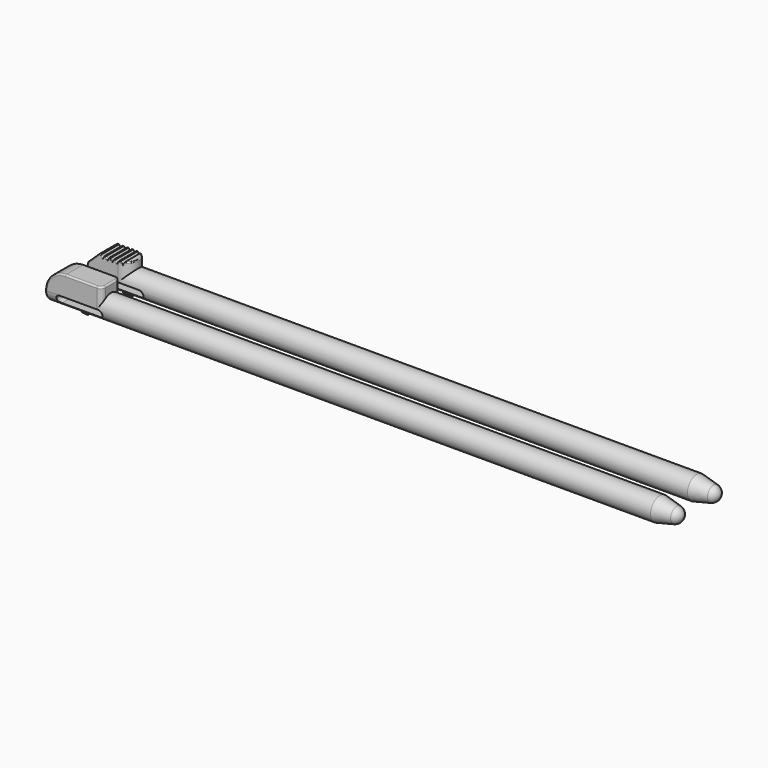
from build123d import *

# Parameters (mm, degrees)
SKETCH_R          = 3.75
PAD_DEPTH         = 205
SKETCH002_W       = 18.75
SKETCH002_H       = 7.8125
PAD001_DEPTH      = 7.5
POCKET_DEPTH      = 7.501
POCKET001_DEPTH   = 9
SKETCH005_R       = 3.75
PAD002_DEPTH      = 10
PAD003_DEPTH      = 1.171875
PAD003_DEPTH_BACK = 1.171875
POCKET002_DEPTH   = 7.501
POCKET003_DEPTH   = 7.501
POCKET004_DEPTH   = 7.501
FILLET_R          = 0.5
POCKET005_DEPTH   = 205.001
PAD004_DEPTH      = 6.171875
POCKET006_DEPTH   = 7.501
POCKET007_DEPTH   = 7.501
PAD005_DEPTH      = 1.530612
PAD005_DEPTH_BACK = 1.530612
POCKET008_DEPTH   = 7.501
FILLET001_R       = 0.3
POCKET009_DEPTH   = 205.001


with BuildPart() as base:
    # Sketch → Pad (new body)
    with BuildSketch(Plane.YZ):
        Circle(SKETCH_R)
    extrude(amount=PAD_DEPTH)

    # Sketch001 → Groove (revolve, cut)
    with BuildSketch(Plane.XZ):
        with BuildLine():
            Line((205, 3.75), (197.5, 3.75))
            Line((197.5, 3.75), (203.0041, 2.5))
            ThreePointArc((205, 0), (204.439824, 1.599501), (203.0041, 2.5))
            Line((206, 0), (205, 0))
            Line((206, 3.75), (206, 0))
            Line((205, 3.75), (206, 3.75))
        make_face()
    revolve(axis=Axis((0, 0, 0), (1, 0, 0)), mode=Mode.SUBTRACT)


with BuildPart() as obj1:
    # Body001 base: copy of Base
    add(base.part)

    # Sketch002 (on DatumPlane) → Pad001 (new body)
    with BuildSketch(Plane(origin=(98.75, 3.75, 0), x_dir=(-1, 0, 0), z_dir=(0, 1, 0))):
        with Locations((89.375, 3.90625)):
            Rectangle(SKETCH002_W, SKETCH002_H)
    extrude(amount=-PAD001_DEPTH)

    # Sketch003 (on DatumPlane) → Pocket (cut, through all)
    with BuildSketch(Plane(origin=(98.75, 3.75, 0), x_dir=(-1, 0, 0), z_dir=(0, 1, 0))):
        with BuildLine():
            Line((98.75, 7.8125), (94.0625, 7.8125))
            ThreePointArc((98.25, 3.125), (96.997388, 6.220166), (94.0625, 7.8125))
            Line((98.25, 3.125), (98.75, -9.375))
            Line((98.75, 3.125), (98.75, -9.375))
            Line((98.75, 3.125), (98.75, 7.8125))
        make_face()
    extrude(amount=-POCKET_DEPTH, mode=Mode.SUBTRACT)

    # Sketch004 (on Face7 of Pocket) → Pocket001 (cut)
    with BuildSketch(Plane.XY.offset(7.8125)):
        with BuildLine():
            Line((17.1875, 3.75), (20.3125, 3.75))
            Line((20.3125, -3.75), (20.3125, 3.75))
            Line((17.1875, -3.75), (20.3125, -3.75))
            ThreePointArc((17.1875, -3.75), (18.292354, -3.292354), (18.75, -2.1875))
            Line((18.75, 2.1875), (18.75, -2.1875))
            ThreePointArc((18.75, 2.1875), (18.292354, 3.292354), (17.1875, 3.75))
        make_face()
    extrude(amount=-POCKET001_DEPTH, mode=Mode.SUBTRACT)

    # Sketch005 (on DatumPlane) → Pad002 (join)
    with BuildSketch(Plane(origin=(17.1875, -1.25, 5.208333), x_dir=(0, 1, 0), z_dir=(1, 0, 0))):
        with Locations((1.25, -5.208333)):
            Circle(SKETCH005_R)
    extrude(amount=PAD002_DEPTH)

    # Sketch006 → Pad003 (join, two sides)
    with BuildSketch(Plane.XZ) as pad003_sk:
        with BuildLine():
            add(Edge.make_bspline(
                [(12.5, -3.75), (12.5, -2.396835), (10.742188, -3.073418), (8.984375, -3.75), (10.742188, -4.426582), (12.5, -5.103165), (12.5, -3.75)],
                knots=[0, 0, 0, 2.094395, 2.094395, 4.18879, 4.18879, 6.283185, 6.283185, 6.283185], degree=2, weights=[1, 0.5, 1, 0.5, 1, 0.5, 1]))
        make_face()
    extrude(amount=PAD003_DEPTH)
    extrude(pad003_sk.sketch, amount=-PAD003_DEPTH_BACK)

    # Sketch007 (on Face1 of Pad003) → Pocket002 (cut, through all)
    with BuildSketch(Plane.XZ.offset(3.75)):
        with BuildLine():
            Line((18.75, 7.8125), (0.225, 7.8125))
            Line((0.225, 2.06235), (0.225, 7.8125))
            Line((0.457494, 2.06235), (0.225, 2.06235))
            ThreePointArc((5.141224, 6.5625), (1.89359, 5.255144), (0.457494, 2.06235))
            Line((5.141224, 6.5625), (18.75, 6.5625))
            Line((18.75, 6.5625), (18.75, 7.8125))
        make_face()
    extrude(amount=-POCKET002_DEPTH, mode=Mode.SUBTRACT)

    # Sketch008 (on Face1 of Pocket002) → Pocket003 (cut, through all)
    with BuildSketch(Plane.XZ.offset(3.75)):
        with BuildLine():
            Line((6.942724, 6.5625), (0.6375, 6.5625))
            Line((0.6375, 6.5625), (0.385492, 0.2623))
            ThreePointArc((6.942724, 6.5625), (2.396034, 4.732208), (0.385492, 0.2623))
        make_face()
    extrude(amount=-POCKET003_DEPTH, mode=Mode.SUBTRACT)

    # Sketch009 (on Face1 of Pocket003) → Pocket004 (cut, through all)
    with BuildSketch(Plane.XZ.offset(3.75)):
        with BuildLine():
            ThreePointArc((5.078125, 0), (3.828125, -1.25), (5.078125, -2.5))
            Line((5.078125, -2.5), (17.578125, -2.5))
            ThreePointArc((17.578125, -2.5), (18.828125, -1.25), (17.578125, 0))
            Line((5.078125, 0), (17.578125, 0))
        make_face()
    extrude(amount=-POCKET004_DEPTH, mode=Mode.SUBTRACT)

    # Fillet
    fillet_edges = [obj1.edges().sort_by_distance(p)[0] for p in [
        (12.065112, -3.75, 6.5625),
    ]]
    fillet(fillet_edges, radius=FILLET_R)

    # Sketch010 → Pocket005 (cut, through all)
    with BuildSketch(Plane.YZ):
        Polygon((-0.746671, -4.53125), (-1.171875, -4.107928), (-2.42468, -2.860669), (-2.849884, -2.437347), (-2.849884, -4.53125), align=None)
    extrude(amount=POCKET005_DEPTH, mode=Mode.SUBTRACT)


with BuildPart() as obj1_1:
    # Body001 placement: moved
    add(obj1.part.moved(Location((0, 15, 0))))


with BuildPart() as obj2:
    # Body002 base: copy of Base
    add(base.part)

    # Sketch011 → Pad004 (new body)
    with BuildSketch(Plane.XY):
        with BuildLine():
            Line((0, 3.75), (0, -3.75))
            Line((12.015306, -3.75), (0, -3.75))
            ThreePointArc((12.015306, -3.75), (15.765306, 0), (12.015306, 3.75))
            Line((0, 3.75), (12.015306, 3.75))
        make_face()
    extrude(amount=PAD004_DEPTH)

    # Sketch012 (on Face5 of Pad004) → Pocket006 (cut, through all)
    with BuildSketch(Plane.XZ.offset(3.75)):
        Polygon((2.225404, 2.588562), (6.011276, 6.171875), (-0.784822, 6.171875), (-0.784822, -3.75), (0.784822, -3.75), align=None)
    extrude(amount=-POCKET006_DEPTH, mode=Mode.SUBTRACT)

    # Sketch013 (on Face3 of Pocket006) → Pocket007 (cut, through all)
    with BuildSketch(Plane.XZ.offset(3.75)):
        Polygon((13.852041, 6.171875), (13.278061, 5.406569), (12.704082, 6.171875), (12.321429, 6.171875), (11.747449, 5.406569), (11.17347, 6.171875), (10.790817, 6.171875), (10.216837, 5.406569), (9.642858, 6.171875), (9.260205, 6.171875), (8.686225, 5.406569), (8.112246, 6.171875), (7.729593, 6.171875), (7.155613, 5.406569), (6.581634, 6.171875), (6.581634, 7.171875), (13.852041, 7.171875), align=None)
    extrude(amount=-POCKET007_DEPTH, mode=Mode.SUBTRACT)

    # Sketch014 → Pad005 (join, two sides)
    with BuildSketch(Plane.XZ) as pad005_sk:
        with BuildLine():
            add(Edge.make_bspline(
                [(15, -3.75), (15, -2.424451), (12.704082, -3.087226), (10.408164, -3.75), (12.704082, -4.412774), (15, -5.075549), (15, -3.75)],
                knots=[0, 0, 0, 2.094395, 2.094395, 4.18879, 4.18879, 6.283185, 6.283185, 6.283185], degree=2, weights=[1, 0.5, 1, 0.5, 1, 0.5, 1]))
        make_face()
    extrude(amount=PAD005_DEPTH)
    extrude(pad005_sk.sketch, amount=-PAD005_DEPTH_BACK)

    # Sketch015 (on Face2 of Pad005) → Pocket008 (cut, through all)
    with BuildSketch(Plane.XZ.offset(3.75)):
        with BuildLine():
            ThreePointArc((8.035714, 0), (6.785714, -1.25), (8.035714, -2.5))
            Line((8.035714, -2.5), (18.903061, -2.5))
            ThreePointArc((18.903061, -2.5), (20.153061, -1.25), (18.903061, 0))
            Line((8.035714, 0), (18.903061, 0))
        make_face()
    extrude(amount=-POCKET008_DEPTH, mode=Mode.SUBTRACT)

    # Fillet001
    fillet001_edges = [obj2.edges().sort_by_distance(p)[0] for p in [
        (1.038252, -2.668287, -2.634909),
        (4.11834, -3.75, 4.380219),
        (4.11834, 3.75, 4.380219),
        (6.296455, -3.75, 6.171875),
        (6.868624, -3.75, 5.789222),
        (7.442603, -3.75, 5.789222),
        (7.920919, -3.75, 6.171875),
        (8.399236, -3.75, 5.789222),
        (8.973215, -3.75, 5.789222),
        (9.451531, -3.75, 6.171875),
        (9.929848, -3.75, 5.789222),
        (10.503827, -3.75, 5.789222),
        (10.982143, -3.75, 6.171875),
        (11.46046, -3.75, 5.789222),
        (12.168414, -3.746873, 5.967854),
        (11.881378, -3.75, 5.58514),
        (12.513416, -3.716771, 6.171875),
        (12.992233, -3.620513, 5.787674),
        (13.567283, -3.413776, 5.792197),
        (15.765306, 0, 6.171875),
        (6.296455, 3.75, 6.171875),
        (6.868624, 3.75, 5.789222),
        (7.442603, 3.75, 5.789222),
        (7.920919, 3.75, 6.171875),
        (8.399236, 3.75, 5.789222),
        (8.973215, 3.75, 5.789222),
        (9.451531, 3.75, 6.171875),
        (9.929848, 3.75, 5.789222),
        (10.503827, 3.75, 5.789222),
        (10.982143, 3.75, 6.171875),
        (11.46046, 3.75, 5.789222),
        (12.168414, 3.746873, 5.967854),
        (11.881378, 3.75, 5.58514),
        (12.513416, 3.716771, 6.171875),
        (12.992233, 3.620513, 5.787674),
        (13.567283, 3.413776, 5.792197),
        (1.038252, 2.668287, -2.634909),
        (1.93125, 3.75, 1.294281),
        (1.93125, -3.75, 1.294281),
    ]]
    fillet(fillet001_edges, radius=FILLET001_R)

    # Sketch016 → Pocket009 (cut, through all)
    with BuildSketch(Plane.YZ):
        Polygon((-3.093453, -2.119681), (-2.715795, -2.585915), (-1.530612, -4.049072), (-1.152954, -4.515306), (-3.093453, -4.515306), align=None)
    extrude(amount=POCKET009_DEPTH, mode=Mode.SUBTRACT)


with BuildPart() as obj2_1:
    # Body002 placement: moved
    add(obj2.part.moved(Location((0, 30, 0))))


solid = Compound([obj1_1.part, obj2_1.part])
